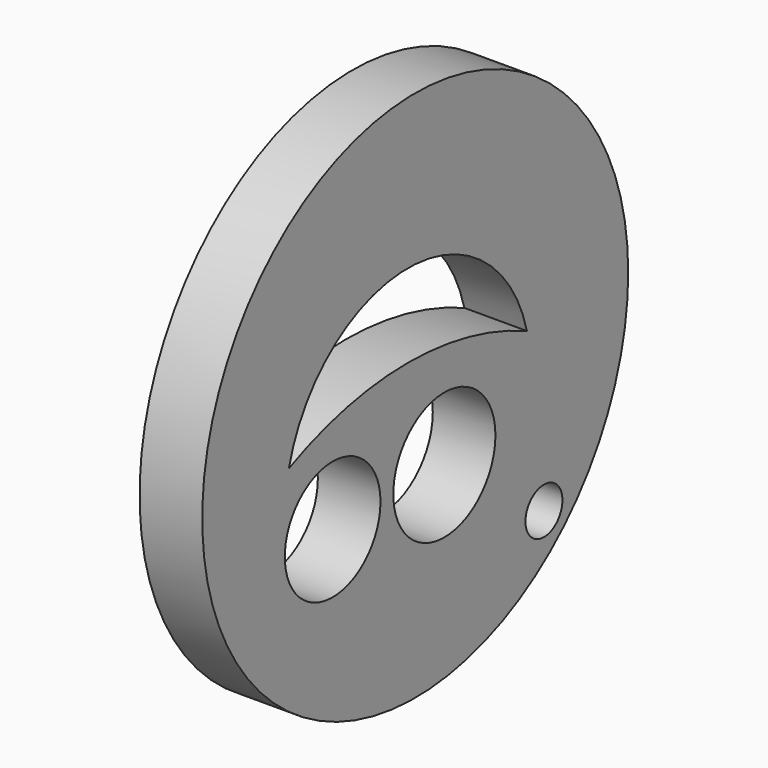
from build123d import *

# Parameters (mm, degrees)
F0_R     = 21.58858
F1_DEPTH = 5.08
F2_R     = 4.849274
F2_R_2   = 5.175735
F3_DEPTH = 5.08
F4_R     = 1.874889
F5_DEPTH = 5.08


with BuildPart() as f1:
    # F0 (on Right) → F1 (new body)
    with BuildSketch(Plane.YZ):
        Circle(F0_R)
    extrude(amount=F1_DEPTH)

    # F2 (on face) → F3 (cut)
    with BuildSketch(Plane.YZ.offset(5.08)):
        with BuildLine():
            ThreePointArc((-12.801601, 0), (-0.738554, 2.638206), (11.324493, 0))
            ThreePointArc((11.324493, 0), (-0.738554, 9.394046), (-12.801601, 0))
        make_face()
        with Locations((-8.370277, -6.154616)):
            Circle(F2_R)
        with Locations((2.954216, -6.154616)):
            Circle(F2_R_2)
    extrude(amount=-F3_DEPTH, mode=Mode.SUBTRACT)

    # F4 (on face) → F5 (cut)
    with BuildSketch(Plane(origin=(0, 0, 0), x_dir=(0, -1, 0), z_dir=(-1, 0, 0))):
        with Locations((-13.047784, -13.540154)):
            Circle(F4_R)
    extrude(amount=-F5_DEPTH, mode=Mode.SUBTRACT)


solid = f1.part
